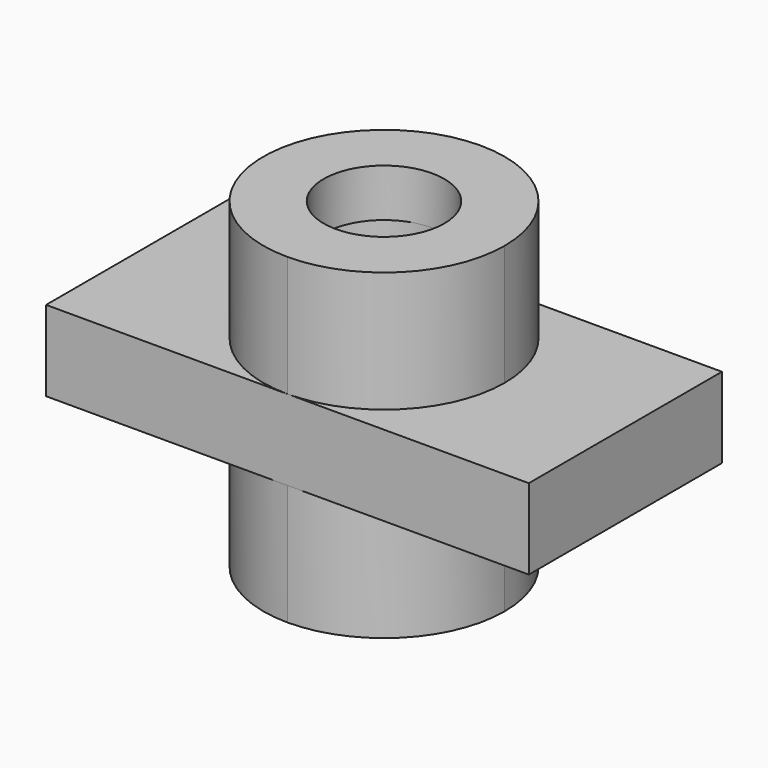
from build123d import *

# Parameters (mm, degrees)
F0_W     = 76.2
F0_H     = 38.1
F1_DEPTH = 12.7
F3_DEPTH = 19.05
F5_DEPTH = 19.05
F7_R     = 9.525
F8_DEPTH = 50.801
F9_W     = 12.7
F9_H     = 6.35


with BuildPart() as f1:
    # F0 (on Top) → F1 (new body)
    with BuildSketch(Plane.XY):
        with Locations((38.1, 19.05)):
            Rectangle(F0_W, F0_H)
    extrude(amount=F1_DEPTH)

    # F2 (on face) → F3 (join)
    with BuildSketch(Plane.XY.offset(12.7)):
        with BuildLine():
            ThreePointArc((38.1, 0), (51.570384, 5.579616), (57.15, 19.05))
            ThreePointArc((57.15, 19.05), (51.570384, 32.520384), (38.1, 38.1))
            ThreePointArc((38.1, 38.1), (19.05, 19.05), (38.1, 0))
        make_face()
    extrude(amount=F3_DEPTH)

    # F4 (on face) → F5 (join)
    with BuildSketch(Plane(origin=(0, 0, 0), x_dir=(1, 0, 0), z_dir=(0, 0, -1))):
        with BuildLine():
            ThreePointArc((38.1, -38.1), (51.570384, -32.520384), (57.15, -19.05))
            ThreePointArc((57.15, -19.05), (51.570384, -5.579616), (38.1, 0))
            ThreePointArc((38.1, 0), (19.05, -19.05), (38.1, -38.1))
        make_face()
    extrude(amount=F5_DEPTH)

    # F7 (on face) → F8 (cut, through all)
    with BuildSketch(Plane.XY.offset(31.75)):
        with Locations((38.1, 19.05)):
            Circle(F7_R)
    extrude(amount=-F8_DEPTH, mode=Mode.SUBTRACT)

    # F9 (on offset) → F10 (revolve, cut)
    with BuildSketch(Plane.XZ.offset(-15.875)):
        with Locations((44.45, 21.002223)):
            Rectangle(F9_W, F9_H)
    revolve(axis=Axis((38.1, 15.875, 19.273669), (0, 0, -1)), mode=Mode.SUBTRACT)


solid = f1.part
